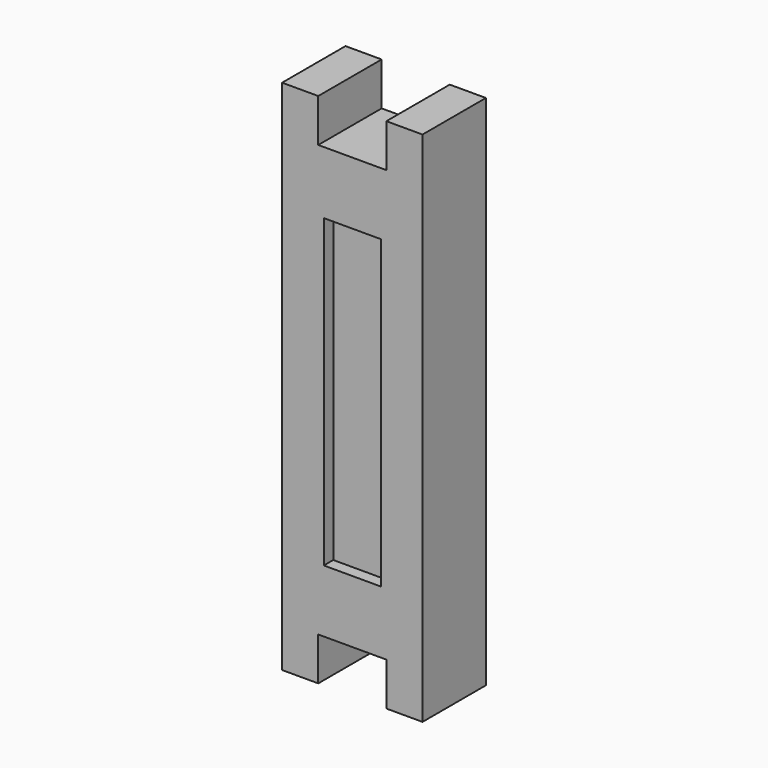
from build123d import *

# Parameters (mm, degrees)
F0_W     = 4.1
F0_H     = 22
F1_DEPTH = 2.85
F2_DEPTH = 2


with BuildPart() as f1:
    # F0 (on Front) → F1 (new body, symmetric)
    with BuildSketch(Plane.XZ):
        Polygon((-5.05, 18.6), (-5.05, -18.6), (-2.45, -18.6), (-2.45, -15.5), (2.45, -15.5), (2.45, -18.6), (5.05, -18.6), (5.05, 18.6), (2.45, 18.6), (2.45, 15.5), (-2.45, 15.5), (-2.45, 18.6), align=None)
        Rectangle(F0_W, F0_H, mode=Mode.SUBTRACT)
    extrude(amount=F1_DEPTH, both=True)

    # F0 (on Front) → F2 (join, symmetric)
    with BuildSketch(Plane.XZ):
        Rectangle(F0_W, F0_H)
    extrude(amount=F2_DEPTH, both=True)


solid = f1.part
